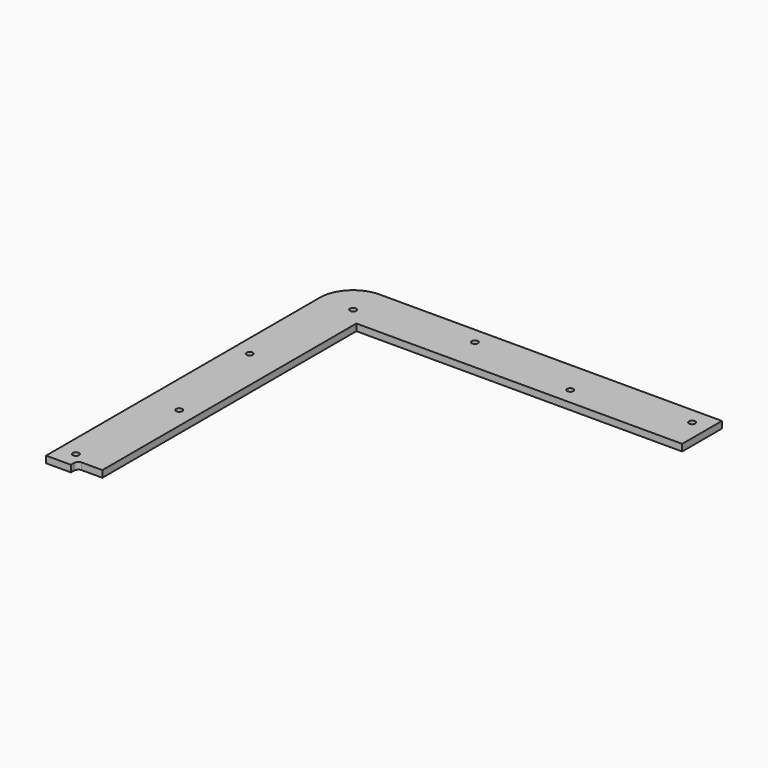
from build123d import *

# Parameters (mm, degrees)
F1_R     = 2.38125
F2_DEPTH = 5.2


with BuildPart() as f2:
    # F1 (on Top) → F2 (new body)
    with BuildSketch(Plane.XY):
        with BuildLine():
            Line((-250, 6.35), (-250, 250))
            Line((-250, 250), (0, 250))
            Line((0, 250), (0, 288.1))
            Line((0, 288.1), (-262.7, 288.1))
            ThreePointArc((-262.7, 288.1), (-280.660512, 280.660512), (-288.1, 262.7))
            Line((-288.1, 262.7), (-288.1, 0))
            Line((-288.1, 0), (-269.05, 0))
            Line((-269.05, 0), (-269.05, 3.175))
            ThreePointArc((-269.05, 3.175), (-268.120064, 5.420064), (-265.875, 6.35))
            Line((-265.875, 6.35), (-250, 6.35))
        make_face()
        with Locations((-275.4, 12.7)):
            Circle(F1_R, mode=Mode.SUBTRACT)
        with Locations((-262.7, 96.033333)):
            Circle(F1_R, mode=Mode.SUBTRACT)
        with Locations((-275.4, 179.366667)):
            Circle(F1_R, mode=Mode.SUBTRACT)
        with Locations((-262.7, 262.7)):
            Circle(F1_R, mode=Mode.SUBTRACT)
        with Locations((-179.366667, 275.4)):
            Circle(F1_R, mode=Mode.SUBTRACT)
        with Locations((-96.033333, 262.7)):
            Circle(F1_R, mode=Mode.SUBTRACT)
        with Locations((-12.7, 275.4)):
            Circle(F1_R, mode=Mode.SUBTRACT)
    extrude(amount=F2_DEPTH)


solid = f2.part
